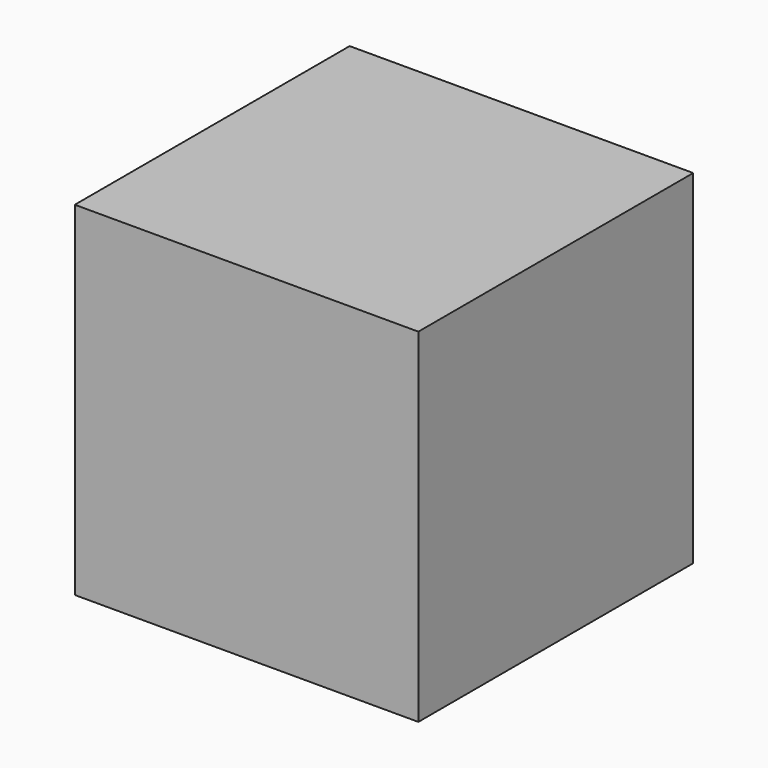
from build123d import *

# Parameters (mm, degrees)
BOX_W        = 10
BOX_H        = 10
BOX_DEPTH    = 10
BOX001_W     = 10
BOX001_H     = 10
BOX001_DEPTH = 10
BOX002_W     = 10
BOX002_H     = 10
BOX002_DEPTH = 10
BOX003_W     = 10
BOX003_H     = 10
BOX003_DEPTH = 10
BOX004_W     = 10
BOX004_H     = 10
BOX004_DEPTH = 10
BOX005_W     = 10
BOX005_H     = 10
BOX005_DEPTH = 10
BOX006_W     = 10
BOX006_H     = 10
BOX006_DEPTH = 10


with BuildPart() as cubo:
    # Box → Box (new body)
    with BuildSketch(Plane.XY):
        with Locations((5, 5)):
            Rectangle(BOX_W, BOX_H)
    extrude(amount=BOX_DEPTH)


with BuildPart() as cubo001:
    # Box001 → Box001 (new body)
    with BuildSketch(Plane.XY):
        with Locations((5, 5)):
            Rectangle(BOX001_W, BOX001_H)
    extrude(amount=BOX001_DEPTH)


with BuildPart() as cubo002:
    # Box002 → Box002 (new body)
    with BuildSketch(Plane.XY):
        with Locations((5, 5)):
            Rectangle(BOX002_W, BOX002_H)
    extrude(amount=BOX002_DEPTH)


with BuildPart() as cubo003:
    # Box003 → Box003 (new body)
    with BuildSketch(Plane.XY):
        with Locations((5, 5)):
            Rectangle(BOX003_W, BOX003_H)
    extrude(amount=BOX003_DEPTH)


with BuildPart() as cubo004:
    # Box004 → Box004 (new body)
    with BuildSketch(Plane.XY):
        with Locations((5, 5)):
            Rectangle(BOX004_W, BOX004_H)
    extrude(amount=BOX004_DEPTH)


with BuildPart() as cubo005:
    # Box005 → Box005 (new body)
    with BuildSketch(Plane.XY):
        with Locations((5, 5)):
            Rectangle(BOX005_W, BOX005_H)
    extrude(amount=BOX005_DEPTH)


with BuildPart() as cubo006:
    # Box006 → Box006 (new body)
    with BuildSketch(Plane.XY):
        with Locations((5, 5)):
            Rectangle(BOX006_W, BOX006_H)
    extrude(amount=BOX006_DEPTH)


solid = Compound([cubo.part, cubo001.part, cubo002.part, cubo003.part, cubo004.part, cubo005.part, cubo006.part])
